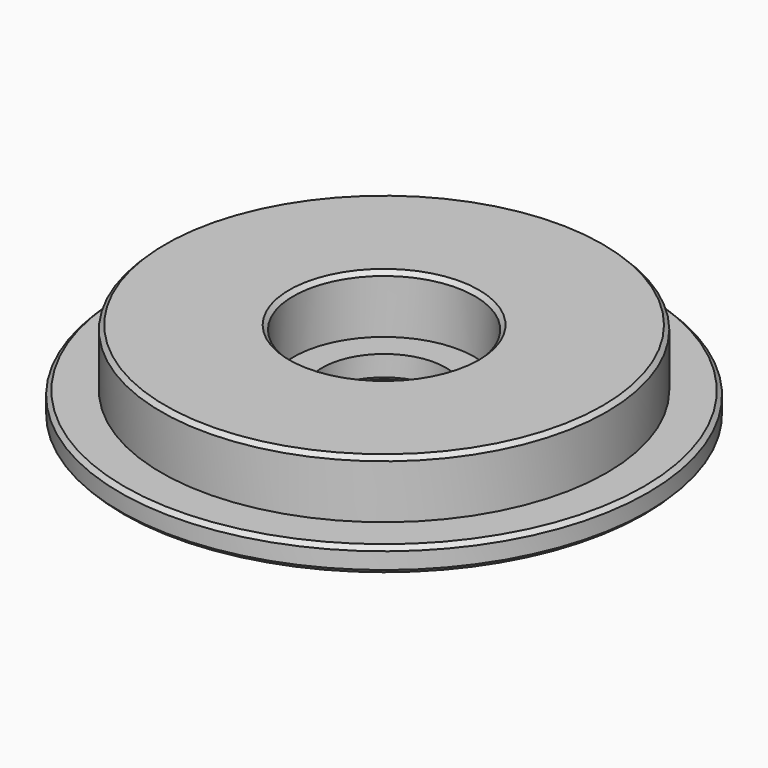
from build123d import *

# Parameters (mm, degrees)
F0_R     = 32
F0_R_2   = 7.5
F1_DEPTH = 3
F2_R     = 27
F2_R_2   = 11
F3_DEPTH = 7
F4_SIZE  = 0.5


with BuildPart() as f1:
    # F0 (on Top) → F1 (new body)
    with BuildSketch(Plane.XY):
        Circle(F0_R)
        Circle(F0_R_2, mode=Mode.SUBTRACT)
    extrude(amount=F1_DEPTH)

    # F2 (on face) → F3 (join)
    with BuildSketch(Plane.XY.offset(3)):
        Circle(F2_R)
        Circle(F2_R_2, mode=Mode.SUBTRACT)
    extrude(amount=F3_DEPTH)

    # F4
    f4_edges = [f1.edges().sort_by_distance(p)[0] for p in [
        (-27, 0, 10),
        (-32, 0, 3),
        (-11, 0, 10),
        (-32, 0, 0),
        (-7.5, 0, 0),
    ]]
    chamfer(f4_edges, length=F4_SIZE)


solid = f1.part
